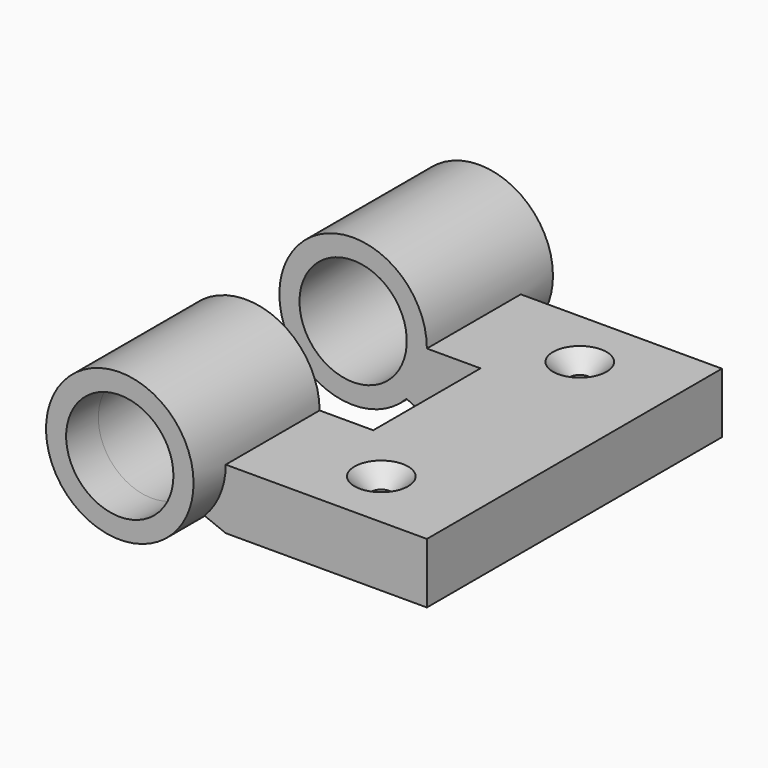
from build123d import *

# Parameters (mm, degrees)
F1_DEPTH        = 9
F3_DEPTH        = 3
F4_R            = 8
F5_DEPTH        = 6
F5_DEPTH_BACK   = 17.5
F6_DEPTH        = 17.5
F7_R            = 8
F8_DEPTH        = 17.5
F8_DEPTH_BACK   = 6
F9_DEPTH        = 17.5
F11_D           = 3
F11_CSINK_D     = 8
F11_CSINK_ANGLE = 90


with BuildPart() as f1:
    # F0 (on Top) → F1 (new body)
    with BuildSketch(Plane.XY):
        Polygon((-15, -10), (-15, -27.5), (0, -27.5), (0, 0), (0, 27.5), (-15, 27.5), (-15, 10), (-7, 10), (-7, 0), (-7, -10), align=None)
        Polygon((0, 0), (0, -27.5), (15, -27.5), (15, 0), (15, 27.5), (0, 27.5), align=None)
    extrude(amount=-F1_DEPTH)

    # F2 (on face) → F3 (cut)
    with BuildSketch(Plane(origin=(0, 0, -9), x_dir=(1, 0, 0), z_dir=(0, 0, -1))):
        Polygon((-13, 25.5), (-13, 12), (-7, 12), (-5, 12), (-5, 10), (-5, -10), (-5, -12), (-7, -12), (-13, -12), (-13, -25.5), (13, -25.5), (13, 25.5), align=None)
    extrude(amount=-F3_DEPTH, mode=Mode.SUBTRACT)

    # F4 (on face) → F5 (join, two sides)
    with BuildSketch(Plane.XZ.offset(27.5)) as f5_sk:
        with BuildLine():
            ThreePointArc((-18.172145319, -7.7281751464), (-15.8238906872, -4.1769365873), (-15, 0))
            ThreePointArc((-15, 0), (-36.1761093128, 4.1769365873), (-18.172145319, -7.7281751464))
        make_face()
        with Locations((-26, 0)):
            Circle(F4_R, mode=Mode.SUBTRACT)
    extrude(amount=F5_DEPTH)
    extrude(f5_sk.sketch, amount=-F5_DEPTH_BACK)

    # F4 (on face) → F6 (join)
    with BuildSketch(Plane.XZ.offset(27.5)):
        with BuildLine():
            Line((-15, -9), (-15, 0))
            ThreePointArc((-15, 0), (-15.8238906872, -4.1769365873), (-18.172145319, -7.7281751464))
            Line((-18.172145319, -7.7281751464), (-15, -9))
        make_face()
    extrude(amount=-F6_DEPTH)

    # F7 (on face) → F8 (join, two sides)
    with BuildSketch(Plane(origin=(0, 27.5, 0), x_dir=(-1, 0, 0), z_dir=(0, 1, 0))) as f8_sk:
        with BuildLine():
            ThreePointArc((18.0354576911, -7.5872304439), (30.0859536587, -10.2129810878), (37, 0))
            ThreePointArc((37, 0), (26, 11), (15, 0))
            ThreePointArc((15, 0), (15.7870189122, -4.0859536587), (18.0354576911, -7.5872304439))
        make_face()
        with Locations((26, 0)):
            Circle(F7_R, mode=Mode.SUBTRACT)
    extrude(amount=-F8_DEPTH)
    extrude(f8_sk.sketch, amount=F8_DEPTH_BACK)

    # F7 (on face) → F9 (join)
    with BuildSketch(Plane(origin=(0, 27.5, 0), x_dir=(-1, 0, 0), z_dir=(0, 1, 0))):
        with BuildLine():
            ThreePointArc((18.0354576911, -7.5872304439), (15.7870189122, -4.0859536587), (15, 0))
            Line((15, 0), (15, -9))
            Line((15, -9), (18.0354576911, -7.5872304439))
        make_face()
    extrude(amount=-F9_DEPTH)

    # F11 (through all)
    with Locations(Plane.XY):
        with Locations((1, 18.5), (1, -18.5)):
            CounterSinkHole(F11_D / 2, F11_CSINK_D / 2, counter_sink_angle=F11_CSINK_ANGLE)


solid = f1.part
